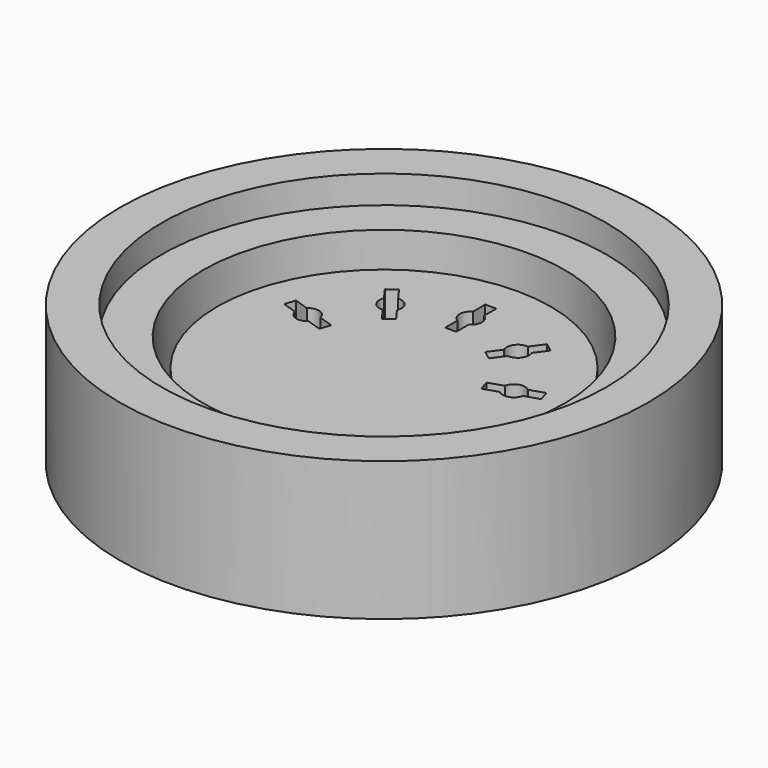
from build123d import *

# Parameters (mm, degrees)
F0_R     = 9.5
F1_DEPTH = 2.5
F2_R     = 6.5
F3_DEPTH = 4
F4_R     = 6
F5_DEPTH = 2
F6_R     = 8
F7_DEPTH = 1


with BuildPart() as f1:
    # F0 (on Top) → F1 (new body, symmetric)
    with BuildSketch(Plane.XY):
        Circle(F0_R)
    extrude(amount=F1_DEPTH, both=True)

    # F2 (on face) → F3 (cut)
    with BuildSketch(Plane.XY.offset(2.5)):
        Circle(F2_R)
        with BuildLine():
            ThreePointArc((-0.75, -5.95294), (0, 6), (0.75, -5.95294))
            Line((0.75, -5.95294), (0.75, -5.5))
            Line((0.75, -5.5), (-0.75, -5.5))
            Line((-0.75, -5.5), (-0.75, -5.95294))
        make_face(mode=Mode.SUBTRACT)
        with BuildLine():
            Line((-3.441468, 0.907908), (-2.914973, 0.73684))
            Line((-2.914973, 0.73684), (-2.791366, 1.117262))
            Line((-2.791366, 1.117262), (-3.317861, 1.288331))
            ThreePointArc((-3.317861, 1.288331), (-3.585514, 1.585589), (-3.976773, 1.502424))
            Line((-3.976773, 1.502424), (-4.503268, 1.673493))
            Line((-4.503268, 1.673493), (-4.626875, 1.29307))
            Line((-4.626875, 1.29307), (-4.100379, 1.122002))
            ThreePointArc((-4.100379, 1.122002), (-3.832727, 0.824744), (-3.441468, 0.907908))
        make_face()
        with BuildLine():
            Line((-2.250551, 2.757358), (-1.925159, 2.309494))
            Line((-1.925159, 2.309494), (-1.601552, 2.544608))
            Line((-1.601552, 2.544608), (-1.926944, 2.992472))
            ThreePointArc((-1.926944, 2.992472), (-1.968756, 3.39028), (-2.334174, 3.552975))
            Line((-2.334174, 3.552975), (-2.659566, 4.000839))
            Line((-2.659566, 4.000839), (-2.983173, 3.765725))
            Line((-2.983173, 3.765725), (-2.657781, 3.317861))
            ThreePointArc((-2.657781, 3.317861), (-2.615969, 2.920052), (-2.250551, 2.757358))
        make_face()
        with BuildLine():
            Line((-0.2, 3), (0.2, 3))
            Line((0.2, 3), (0.2, 3.55359))
            ThreePointArc((0.2, 3.55359), (0.4, 3.9), (0.2, 4.24641))
            Line((0.2, 4.24641), (0.2, 4.8))
            Line((0.2, 4.8), (-0.2, 4.8))
            Line((-0.2, 4.8), (-0.2, 4.24641))
            ThreePointArc((-0.2, 4.24641), (-0.4, 3.9), (-0.2, 3.55359))
            Line((-0.2, 3.55359), (-0.2, 3))
        make_face()
        with BuildLine():
            Line((1.926944, 2.992472), (1.601552, 2.544608))
            Line((1.601552, 2.544608), (1.925159, 2.309494))
            Line((1.925159, 2.309494), (2.250551, 2.757358))
            ThreePointArc((2.250551, 2.757358), (2.615969, 2.920052), (2.657781, 3.317861))
            Line((2.657781, 3.317861), (2.983173, 3.765725))
            Line((2.983173, 3.765725), (2.659566, 4.000839))
            Line((2.659566, 4.000839), (2.334174, 3.552975))
            ThreePointArc((2.334174, 3.552975), (1.968756, 3.39028), (1.926944, 2.992472))
        make_face()
        with BuildLine():
            Line((3.317861, 1.288331), (2.791366, 1.117262))
            Line((2.791366, 1.117262), (2.914973, 0.73684))
            Line((2.914973, 0.73684), (3.441468, 0.907908))
            ThreePointArc((3.441468, 0.907908), (3.832727, 0.824744), (4.100379, 1.122002))
            Line((4.100379, 1.122002), (4.626875, 1.29307))
            Line((4.626875, 1.29307), (4.503268, 1.673493))
            Line((4.503268, 1.673493), (3.976773, 1.502424))
            ThreePointArc((3.976773, 1.502424), (3.585514, 1.585589), (3.317861, 1.288331))
        make_face()
    extrude(amount=-F3_DEPTH, mode=Mode.SUBTRACT)

    # F4 (on face) → F5 (cut)
    with BuildSketch(Plane.XY.offset(2.5)):
        Circle(F4_R)
    extrude(amount=-F5_DEPTH, mode=Mode.SUBTRACT)

    # F6 (on face) → F7 (cut)
    with BuildSketch(Plane.XY.offset(2.5)):
        Circle(F6_R)
    extrude(amount=-F7_DEPTH, mode=Mode.SUBTRACT)


solid = f1.part
